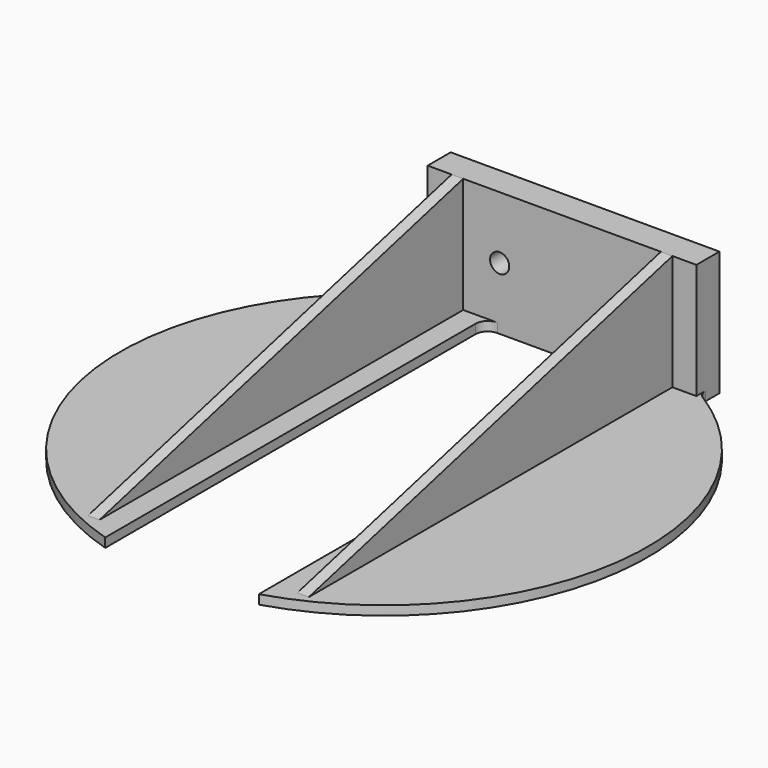
from build123d import *

# Parameters (mm, degrees)
PAD018_DEPTH = 1.92
SKETCH042_W  = 28
SKETCH042_H  = 26
SKETCH042_R  = 2
PAD020_DEPTH = 6
PAD021_DEPTH = 2.4


with BuildPart() as part:
    # Sketch038 → Pad018 (new body)
    with BuildSketch(Plane.XY):
        with BuildLine():
            ThreePointArc((16, -52.6212884677), (54.5217663163, -7.237195434), (29.1738989847, 46.6249248582))
            ThreePointArc((28, 48.7442306082), (28.3130783141, 47.5328784807), (29.1738989848, 46.6249248582))
            Line((28, 52.3787115323), (28, 48.7442306082))
            Line((0, 52.3787115323), (28, 52.3787115323))
            Line((0, 46.3787115323), (0, 52.3787115323))
            Line((13.5000003539, 46.3787115323), (0, 46.3787115323))
            ThreePointArc((16, 43.8787114546), (15.2677671056, 45.6464783327), (13.5000003539, 46.3787115323))
            Line((16, 43.8787114546), (16, -52.6212884677))
        make_face()
    pad018 = extrude(amount=PAD018_DEPTH)

    # Sketch042 (on DatumPlane) → Pad020 (join)
    with BuildSketch(Plane(origin=(0, 52.3787115323, 0), x_dir=(-1, 0, 0), z_dir=(0, 1, 0))):
        with Locations((-14, 13)):
            Rectangle(SKETCH042_W, SKETCH042_H)
        with Locations((-13, 13)):
            Circle(SKETCH042_R, mode=Mode.SUBTRACT)
    pad020 = extrude(amount=-PAD020_DEPTH)

    # Sketch043 (on DatumPlane) → Pad021 (join)
    with BuildSketch(Plane(origin=(23, 0, 0), x_dir=(0, -1, 0), z_dir=(-1, 0, 0))):
        Polygon((-46.3787115323, 26), (48.344858, 1.92), (-46.3787115323, 1.92), align=None)
    pad021 = extrude(amount=PAD021_DEPTH)

    # Mirrored011: Pad018, Pad020, Pad021 across Sketch038 V_Axis
    add(pad018.mirror(Plane(origin=(0, 0, 0), x_dir=(0, 0, 1), z_dir=(1, 0, 0))))
    add(pad020.mirror(Plane(origin=(0, 0, 0), x_dir=(0, 0, 1), z_dir=(1, 0, 0))))
    add(pad021.mirror(Plane(origin=(0, 0, 0), x_dir=(0, 0, 1), z_dir=(1, 0, 0))))


solid = part.part
